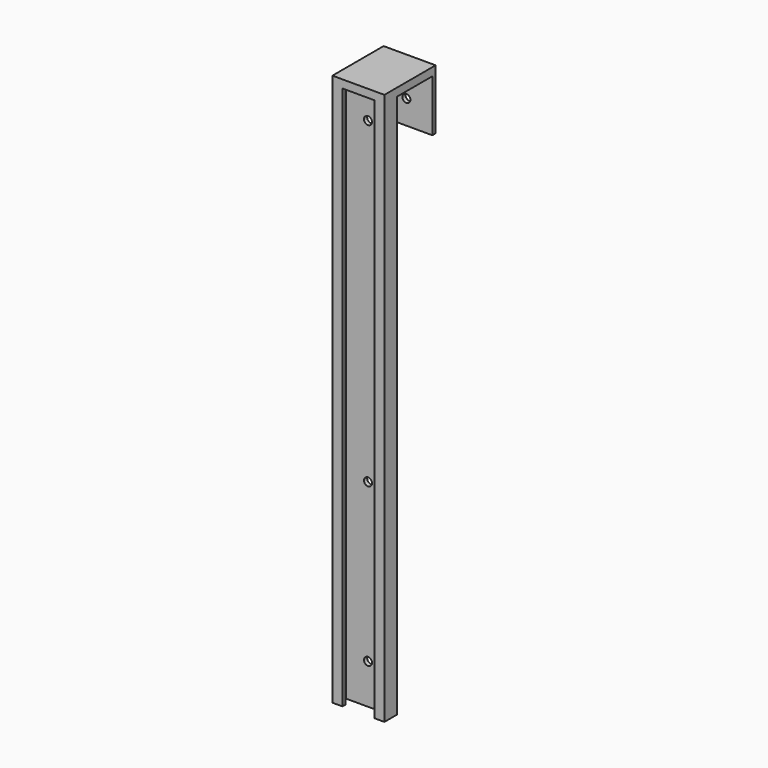
from build123d import *

# Parameters (mm, degrees)
F0_W      = 13
F0_H      = 138
F1_DEPTH  = 4
F2_W      = 8
F2_H      = 1
F3_DEPTH  = 136
F4_R      = 1
F5_DEPTH  = 4.001
F6_R      = 1
F7_DEPTH  = 4.001
F8_W      = 13
F8_H      = 2
F9_DEPTH  = 12
F10_W     = 13
F10_H     = 1
F11_DEPTH = 13
F12_R     = 1
F13_DEPTH = 16.001


with BuildPart() as f1:
    # F0 (on Front) → F1 (new body)
    with BuildSketch(Plane.XZ):
        with Locations((0, 12.801612)):
            Rectangle(F0_W, F0_H)
    extrude(amount=F1_DEPTH)

    # F2 (on face) → F3 (cut)
    with BuildSketch(Plane(origin=(0, 0, -56.198388), x_dir=(1, 0, 0), z_dir=(0, 0, -1))):
        with Locations((0, 3.5)):
            Rectangle(F2_W, F2_H)
        Polygon((-5.5, 1), (-4, 1), (4, 1), (5.5, 1), (5.5, 3), (4, 3), (-4, 3), (-5.5, 3), align=None)
    extrude(amount=-F3_DEPTH, mode=Mode.SUBTRACT)

    # F4 (on face) → F5 (cut, through all)
    with BuildSketch(Plane.XZ.offset(4)):
        with Locations((0, -46.198388)):
            Circle(F4_R)
    extrude(amount=-F5_DEPTH, mode=Mode.SUBTRACT)

    # F6 (on face) → F7 (cut, through all)
    with BuildSketch(Plane.XZ.offset(4)):
        with Locations((0, -6.698388)):
            Circle(F6_R)
    extrude(amount=-F7_DEPTH, mode=Mode.SUBTRACT)

    # F8 (on face) → F9 (join)
    with BuildSketch(Plane(origin=(0, 0, 0), x_dir=(-1, 0, 0), z_dir=(0, 1, 0))):
        with Locations((0, 80.801612)):
            Rectangle(F8_W, F8_H)
    extrude(amount=F9_DEPTH)

    # F10 (on face) → F11 (join)
    with BuildSketch(Plane(origin=(0, 0, 79.801612), x_dir=(1, 0, 0), z_dir=(0, 0, -1))):
        with Locations((0, -11.5)):
            Rectangle(F10_W, F10_H)
    extrude(amount=F11_DEPTH)

    # F12 (on face) → F13 (cut, through all)
    with BuildSketch(Plane(origin=(0, 12, 0), x_dir=(-1, 0, 0), z_dir=(0, 1, 0))):
        with Locations((0, 72.801612)):
            Circle(F12_R)
    extrude(amount=-F13_DEPTH, mode=Mode.SUBTRACT)


solid = f1.part
